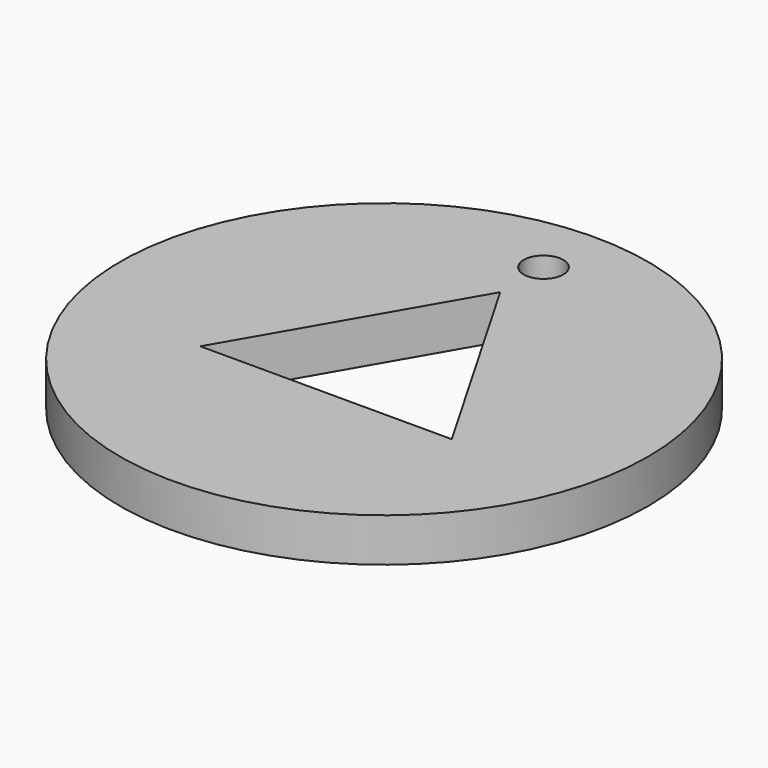
from build123d import *

# Parameters (mm, degrees)
CYLINDER_R      = 20
CYLINDER_DEPTH  = 3.3
SKETCH_R        = 1.5
POCKET_DEPTH    = 3.301
POCKET001_DEPTH = 3.301


with BuildPart() as part:
    # Cylinder → Cylinder (new body)
    with BuildSketch(Plane.XY):
        Circle(CYLINDER_R)
    extrude(amount=CYLINDER_DEPTH)

    # Sketch → Pocket (cut, through all)
    with BuildSketch(Plane.XY.offset(3.3)):
        with Locations((0, 15.1)):
            Circle(SKETCH_R)
    extrude(amount=-POCKET_DEPTH, mode=Mode.SUBTRACT)

    # Sketch001 → Pocket001 (cut, through all)
    with BuildSketch(Plane(origin=(0, 0, 0), x_dir=(1, 0, 0), z_dir=(0, 0, -1))):
        Polygon((-9.526279, 5.5), (9.526279, 5.5), (0, -11), align=None)
    extrude(amount=-POCKET001_DEPTH, mode=Mode.SUBTRACT)


solid = part.part
